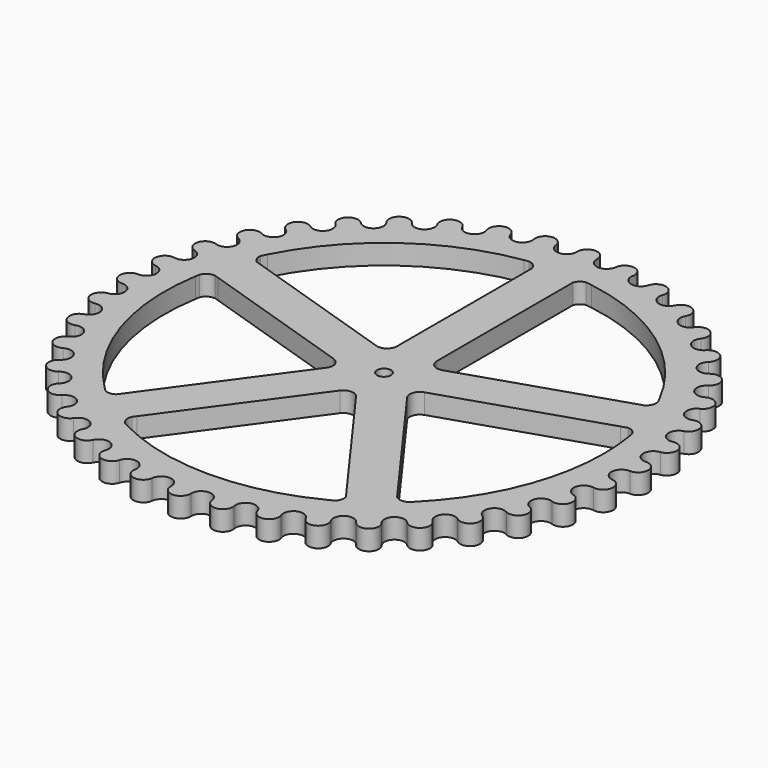
from build123d import *

# Parameters (mm, degrees)
F1_DEPTH = 5
F2_D     = 3.5
F4_DEPTH = 25


with BuildPart() as f1:
    # F0 (on Top) → F1 (new body)
    with BuildSketch(Plane.XY):
        with BuildLine():
            ThreePointArc((63.612902467, -2.4991969551), (63.6497073619, -1.249839365), (63.6619772368, 0))
            ThreePointArc((63.6619772368, 0), (63.6497073619, 1.249839365), (63.612902467, 2.4991969551))
            ThreePointArc((63.612902467, 2.4991969551), (60.9734352727, 4.7987134269), (63.2206826167, 7.4828226737))
            ThreePointArc((63.2206826167, 7.4828226737), (62.878192656, 9.9589273524), (62.4387615394, 12.4196780604))
            ThreePointArc((62.4387615394, 12.4196780604), (59.4720669371, 14.2779800302), (61.2717597431, 17.2805903742))
            ThreePointArc((61.2717597431, 17.2805903742), (60.5461382913, 19.6726328617), (59.7271710803, 22.0343454734))
            ThreePointArc((59.7271710803, 22.0343454734), (56.506298937, 23.4056753792), (57.8141227952, 26.6528525887))
            ThreePointArc((57.8141227952, 26.6528525887), (56.7232370607, 28.9019328601), (55.5448994461, 31.1064541731))
            ThreePointArc((55.5448994461, 31.1064541731), (52.1491583234, 31.9570453214), (52.9329102701, 35.3688331167))
            ThreePointArc((52.9329102701, 35.3688331167), (51.50362148, 37.4195713515), (49.9949280445, 39.4126187345))
            ThreePointArc((49.9949280445, 39.4126187345), (46.5079323587, 39.7215267484), (46.7483138198, 43.2139155909))
            ThreePointArc((46.7483138198, 43.2139155909), (45.0158158079, 45.0158158079), (43.2139155909, 46.7483138198))
            ThreePointArc((43.2139155909, 46.7483138198), (39.7215267484, 46.5079323587), (39.4126187345, 49.9949280445))
            ThreePointArc((39.4126187345, 49.9949280445), (37.4195713515, 51.50362148), (35.3688331167, 52.9329102701))
            ThreePointArc((35.3688331167, 52.9329102701), (31.9570453214, 52.1491583234), (31.1064541731, 55.5448994461))
            ThreePointArc((31.1064541731, 55.5448994461), (28.9019328601, 56.7232370607), (26.6528525887, 57.8141227952))
            ThreePointArc((26.6528525887, 57.8141227952), (23.4056753792, 56.506298937), (22.0343454734, 59.7271710803))
            ThreePointArc((22.0343454734, 59.7271710803), (19.6726328617, 60.5461382913), (17.2805903742, 61.2717597431))
            ThreePointArc((17.2805903742, 61.2717597431), (14.2779800302, 59.4720669371), (12.4196780604, 62.4387615394))
            ThreePointArc((12.4196780604, 62.4387615394), (9.9589273524, 62.878192656), (7.4828226737, 63.2206826167))
            ThreePointArc((7.4828226737, 63.2206826167), (6.5997389632, 61.5488646952), (4.7987134269, 60.9734352727))
            ThreePointArc((4.7987134269, 60.9734352727), (3.1098784975, 61.8235226704), (2.4991969551, 63.612902467))
            ThreePointArc((2.4991969551, 63.612902467), (0, 63.6619772368), (-2.4991969551, 63.612902467))
            ThreePointArc((-2.4991969551, 63.612902467), (-4.7987134269, 60.9734352727), (-7.4828226737, 63.2206826167))
            ThreePointArc((-7.4828226737, 63.2206826167), (-9.9589273524, 62.878192656), (-12.4196780604, 62.4387615394))
            ThreePointArc((-12.4196780604, 62.4387615394), (-14.2779800302, 59.4720669371), (-17.2805903742, 61.2717597431))
            ThreePointArc((-17.2805903742, 61.2717597431), (-19.6726328617, 60.5461382913), (-22.0343454734, 59.7271710803))
            ThreePointArc((-22.0343454734, 59.7271710803), (-23.4056753792, 56.506298937), (-26.6528525887, 57.8141227952))
            ThreePointArc((-26.6528525887, 57.8141227952), (-28.9019328601, 56.7232370607), (-31.1064541731, 55.5448994461))
            ThreePointArc((-31.1064541731, 55.5448994461), (-31.9570453214, 52.1491583234), (-35.3688331167, 52.9329102701))
            ThreePointArc((-35.3688331167, 52.9329102701), (-37.4195713515, 51.50362148), (-39.4126187345, 49.9949280445))
            ThreePointArc((-39.4126187345, 49.9949280445), (-39.7215267484, 46.5079323587), (-43.2139155909, 46.7483138198))
            ThreePointArc((-43.2139155909, 46.7483138198), (-45.0158158079, 45.0158158079), (-46.7483138198, 43.2139155909))
            ThreePointArc((-46.7483138198, 43.2139155909), (-46.5079323587, 39.7215267484), (-49.9949280445, 39.4126187345))
            ThreePointArc((-49.9949280445, 39.4126187345), (-51.50362148, 37.4195713515), (-52.9329102701, 35.3688331167))
            ThreePointArc((-52.9329102701, 35.3688331167), (-52.1491583234, 31.9570453214), (-55.5448994461, 31.1064541731))
            ThreePointArc((-55.5448994461, 31.1064541731), (-56.7232370607, 28.9019328601), (-57.8141227952, 26.6528525887))
            ThreePointArc((-57.8141227952, 26.6528525887), (-56.506298937, 23.4056753792), (-59.7271710803, 22.0343454734))
            ThreePointArc((-59.7271710803, 22.0343454734), (-60.5461382913, 19.6726328617), (-61.2717597431, 17.2805903742))
            ThreePointArc((-61.2717597431, 17.2805903742), (-59.4720669371, 14.2779800302), (-62.4387615394, 12.4196780604))
            ThreePointArc((-62.4387615394, 12.4196780604), (-62.878192656, 9.9589273524), (-63.2206826167, 7.4828226737))
            ThreePointArc((-63.2206826167, 7.4828226737), (-60.9734352727, 4.7987134269), (-63.612902467, 2.4991969551))
            ThreePointArc((-63.612902467, 2.4991969551), (-63.6619772368, 0), (-63.612902467, -2.4991969551))
            ThreePointArc((-63.612902467, -2.4991969551), (-60.9734352727, -4.7987134269), (-63.2206826167, -7.4828226737))
            ThreePointArc((-63.2206826167, -7.4828226737), (-62.878192656, -9.9589273524), (-62.4387615394, -12.4196780604))
            ThreePointArc((-62.4387615394, -12.4196780604), (-59.4720669371, -14.2779800302), (-61.2717597431, -17.2805903742))
            ThreePointArc((-61.2717597431, -17.2805903742), (-60.5461382913, -19.6726328617), (-59.7271710803, -22.0343454734))
            ThreePointArc((-59.7271710803, -22.0343454734), (-56.506298937, -23.4056753792), (-57.8141227952, -26.6528525887))
            ThreePointArc((-57.8141227952, -26.6528525887), (-56.7232370607, -28.9019328601), (-55.5448994461, -31.1064541731))
            ThreePointArc((-55.5448994461, -31.1064541731), (-52.1491583234, -31.9570453214), (-52.9329102701, -35.3688331167))
            ThreePointArc((-52.9329102701, -35.3688331167), (-51.50362148, -37.4195713515), (-49.9949280445, -39.4126187345))
            ThreePointArc((-49.9949280445, -39.4126187345), (-46.5079323587, -39.7215267484), (-46.7483138198, -43.2139155909))
            ThreePointArc((-46.7483138198, -43.2139155909), (-45.0158158079, -45.0158158079), (-43.2139155909, -46.7483138198))
            ThreePointArc((-43.2139155909, -46.7483138198), (-39.7215267484, -46.5079323587), (-39.4126187345, -49.9949280445))
            ThreePointArc((-39.4126187345, -49.9949280445), (-37.4195713515, -51.50362148), (-35.3688331167, -52.9329102701))
            ThreePointArc((-35.3688331167, -52.9329102701), (-31.9570453214, -52.1491583234), (-31.1064541731, -55.5448994461))
            ThreePointArc((-31.1064541731, -55.5448994461), (-28.9019328601, -56.7232370607), (-26.6528525887, -57.8141227952))
            ThreePointArc((-26.6528525887, -57.8141227952), (-23.4056753792, -56.506298937), (-22.0343454734, -59.7271710803))
            ThreePointArc((-22.0343454734, -59.7271710803), (-19.6726328617, -60.5461382913), (-17.2805903742, -61.2717597431))
            ThreePointArc((-17.2805903742, -61.2717597431), (-14.2779800302, -59.4720669371), (-12.4196780604, -62.4387615394))
            ThreePointArc((-12.4196780604, -62.4387615394), (-9.9589273524, -62.878192656), (-7.4828226737, -63.2206826167))
            ThreePointArc((-7.4828226737, -63.2206826167), (-4.7987134269, -60.9734352727), (-2.4991969551, -63.612902467))
            ThreePointArc((-2.4991969551, -63.612902467), (0, -63.6619772368), (2.4991969551, -63.612902467))
            ThreePointArc((2.4991969551, -63.612902467), (4.7987134269, -60.9734352727), (7.4828226737, -63.2206826167))
            ThreePointArc((7.4828226737, -63.2206826167), (9.9589273524, -62.878192656), (12.4196780604, -62.4387615394))
            ThreePointArc((12.4196780604, -62.4387615394), (14.2779800302, -59.4720669371), (17.2805903742, -61.2717597431))
            ThreePointArc((17.2805903742, -61.2717597431), (19.6726328617, -60.5461382913), (22.0343454734, -59.7271710803))
            ThreePointArc((22.0343454734, -59.7271710803), (23.4056753792, -56.506298937), (26.6528525887, -57.8141227952))
            ThreePointArc((26.6528525887, -57.8141227952), (28.9019328601, -56.7232370607), (31.1064541731, -55.5448994461))
            ThreePointArc((31.1064541731, -55.5448994461), (31.9570453214, -52.1491583234), (35.3688331167, -52.9329102701))
            ThreePointArc((35.3688331167, -52.9329102701), (37.4195713515, -51.50362148), (39.4126187345, -49.9949280445))
            ThreePointArc((39.4126187345, -49.9949280445), (39.7215267484, -46.5079323587), (43.2139155909, -46.7483138198))
            ThreePointArc((43.2139155909, -46.7483138198), (45.0158158079, -45.0158158079), (46.7483138198, -43.2139155909))
            ThreePointArc((46.7483138198, -43.2139155909), (46.5079323587, -39.7215267484), (49.9949280445, -39.4126187345))
            ThreePointArc((49.9949280445, -39.4126187345), (51.50362148, -37.4195713515), (52.9329102701, -35.3688331167))
            ThreePointArc((52.9329102701, -35.3688331167), (52.1491583234, -31.9570453214), (55.5448994461, -31.1064541731))
            ThreePointArc((55.5448994461, -31.1064541731), (56.7232370607, -28.9019328601), (57.8141227952, -26.6528525887))
            ThreePointArc((57.8141227952, -26.6528525887), (56.506298937, -23.4056753792), (59.7271710803, -22.0343454734))
            ThreePointArc((59.7271710803, -22.0343454734), (60.5461382913, -19.6726328617), (61.2717597431, -17.2805903742))
            ThreePointArc((61.2717597431, -17.2805903742), (59.4720669371, -14.2779800302), (62.4387615394, -12.4196780604))
            ThreePointArc((62.4387615394, -12.4196780604), (62.878192656, -9.9589273524), (63.2206826167, -7.4828226737))
            ThreePointArc((63.2206826167, -7.4828226737), (60.9734352727, -4.7987134269), (63.612902467, -2.4991969551))
        make_face()
        with BuildLine():
            ThreePointArc((-7.4825035691, -63.2207203853), (-7.4826631214, -63.2207015012), (-7.4828226737, -63.2206826167))
            ThreePointArc((-7.4828226737, -63.2206826167), (-9.9589273524, -62.878192656), (-12.4196780604, -62.4387615394))
            ThreePointArc((-12.4196780604, -62.4387615394), (-12.4198356393, -62.4387301952), (-12.4199932181, -62.4386988506))
            ThreePointArc((-12.4199932181, -62.4386988506), (-10.350013515, -65.3474135075), (-7.4825035691, -63.2207203853))
        make_face()
        with BuildLine():
            ThreePointArc((-2.4991969551, 63.612902467), (0, 63.6619772368), (2.4991969551, 63.612902467))
            ThreePointArc((2.4991969551, 63.612902467), (2.4993574972, 63.6128961595), (2.4995180393, 63.6128898515))
            ThreePointArc((2.4995180393, 63.6128898515), (0, 66.1619772368), (-2.4995180393, 63.6128898515))
            ThreePointArc((-2.4995180393, 63.6128898515), (-2.4993574972, 63.6128961595), (-2.4991969551, 63.612902467))
        make_face()
        with BuildLine():
            ThreePointArc((-12.4196780604, 62.4387615394), (-9.9589273524, 62.878192656), (-7.4828226737, 63.2206826167))
            ThreePointArc((-7.4828226737, 63.2206826167), (-7.4826631214, 63.2207015012), (-7.4825035691, 63.2207203853))
            ThreePointArc((-7.4825035691, 63.2207203853), (-10.350013515, 65.3474135075), (-12.4199932181, 62.4386988506))
            ThreePointArc((-12.4199932181, 62.4386988506), (-12.4198356393, 62.4387301952), (-12.4196780604, 62.4387615394))
        make_face()
        with BuildLine():
            ThreePointArc((-22.0343454734, 59.7271710803), (-19.6726328617, 60.5461382913), (-17.2805903742, 61.2717597431))
            ThreePointArc((-17.2805903742, 61.2717597431), (-17.2804357404, 61.2718033545), (-17.2802811066, 61.2718469656))
            ThreePointArc((-17.2802811066, 61.2718469656), (-20.4451753476, 62.923779582), (-22.0346469443, 59.7270598618))
            ThreePointArc((-22.0346469443, 59.7270598618), (-22.0344962089, 59.7271154712), (-22.0343454734, 59.7271710803))
        make_face()
        with BuildLine():
            ThreePointArc((-31.1064541731, 55.5448994461), (-28.9019328601, 56.7232370607), (-26.6528525887, 57.8141227952))
            ThreePointArc((-26.6528525887, 57.8141227952), (-26.6527066811, 57.8141900598), (-26.6525607733, 57.814257324))
            ThreePointArc((-26.6525607733, 57.814257324), (-30.0369091095, 58.9507533712), (-31.1067345339, 55.5447424364))
            ThreePointArc((-31.1067345339, 55.5447424364), (-31.1065943536, 55.5448209414), (-31.1064541731, 55.5448994461))
        make_face()
        with BuildLine():
            ThreePointArc((-39.4126187345, 49.9949280445), (-37.4195713515, 51.50362148), (-35.3688331167, 52.9329102701))
            ThreePointArc((-35.3688331167, 52.9329102701), (-35.3686995279, 52.9329995315), (-35.3685659389, 52.9330887925))
            ThreePointArc((-35.3685659389, 52.9330887925), (-38.8890344823, 53.526163966), (-39.412871082, 49.9947291099))
            ThreePointArc((-39.412871082, 49.9947291099), (-39.4127449084, 49.9948285774), (-39.4126187345, 49.9949280445))
        make_face()
        with BuildLine():
            ThreePointArc((-46.7483138198, 43.2139155909), (-45.0158158079, 45.0158158079), (-43.2139155909, 46.7483138198))
            ThreePointArc((-43.2139155909, 46.7483138198), (-43.2137976104, 46.7484228801), (-43.2136796296, 46.7485319402))
            ThreePointArc((-43.2136796296, 46.7485319402), (-46.7835827608, 46.7835827608), (-46.7485319402, 43.2136796296))
            ThreePointArc((-46.7485319402, 43.2136796296), (-46.7484228801, 43.2137976104), (-46.7483138198, 43.2139155909))
        make_face()
        with BuildLine():
            ThreePointArc((-52.9329102701, 35.3688331167), (-51.50362148, 37.4195713515), (-49.9949280445, 39.4126187345))
            ThreePointArc((-49.9949280445, 39.4126187345), (-49.9948285774, 39.4127449084), (-49.9947291099, 39.412871082))
            ThreePointArc((-49.9947291099, 39.412871082), (-53.526163966, 38.8890344823), (-52.9330887925, 35.3685659389))
            ThreePointArc((-52.9330887925, 35.3685659389), (-52.9329995315, 35.3686995279), (-52.9329102701, 35.3688331167))
        make_face()
        with BuildLine():
            ThreePointArc((-57.8141227952, 26.6528525887), (-56.7232370607, 28.9019328601), (-55.5448994461, 31.1064541731))
            ThreePointArc((-55.5448994461, 31.1064541731), (-55.5448209414, 31.1065943536), (-55.5447424364, 31.1067345339))
            ThreePointArc((-55.5447424364, 31.1067345339), (-58.9507533712, 30.0369091095), (-57.814257324, 26.6525607733))
            ThreePointArc((-57.814257324, 26.6525607733), (-57.8141900598, 26.6527066811), (-57.8141227952, 26.6528525887))
        make_face()
        with BuildLine():
            ThreePointArc((-61.2717597431, 17.2805903742), (-60.5461382913, 19.6726328617), (-59.7271710803, 22.0343454734))
            ThreePointArc((-59.7271710803, 22.0343454734), (-59.7271154712, 22.0344962089), (-59.7270598618, 22.0346469443))
            ThreePointArc((-59.7270598618, 22.0346469443), (-62.923779582, 20.4451753476), (-61.2718469656, 17.2802811066))
            ThreePointArc((-61.2718469656, 17.2802811066), (-61.2718033545, 17.2804357404), (-61.2717597431, 17.2805903742))
        make_face()
        with BuildLine():
            ThreePointArc((-63.2206826167, 7.4828226737), (-62.878192656, 9.9589273524), (-62.4387615394, 12.4196780604))
            ThreePointArc((-62.4387615394, 12.4196780604), (-62.4387301952, 12.4198356393), (-62.4386988506, 12.4199932181))
            ThreePointArc((-62.4386988506, 12.4199932181), (-65.3474135075, 10.350013515), (-63.2207203853, 7.4825035691))
            ThreePointArc((-63.2207203853, 7.4825035691), (-63.2207015012, 7.4826631214), (-63.2206826167, 7.4828226737))
        make_face()
        with BuildLine():
            ThreePointArc((-63.6128898515, -2.4995180393), (-63.6128961595, -2.4993574972), (-63.612902467, -2.4991969551))
            ThreePointArc((-63.612902467, -2.4991969551), (-63.6619772368, 0), (-63.612902467, 2.4991969551))
            ThreePointArc((-63.612902467, 2.4991969551), (-63.6128961595, 2.4993574972), (-63.6128898515, 2.4995180393))
            ThreePointArc((-63.6128898515, 2.4995180393), (-66.1619772368, 0), (-63.6128898515, -2.4995180393))
        make_face()
        with BuildLine():
            ThreePointArc((-62.4386988506, -12.4199932181), (-62.4387301952, -12.4198356393), (-62.4387615394, -12.4196780604))
            ThreePointArc((-62.4387615394, -12.4196780604), (-62.878192656, -9.9589273524), (-63.2206826167, -7.4828226737))
            ThreePointArc((-63.2206826167, -7.4828226737), (-63.2207015012, -7.4826631214), (-63.2207203853, -7.4825035691))
            ThreePointArc((-63.2207203853, -7.4825035691), (-65.3474135075, -10.350013515), (-62.4386988506, -12.4199932181))
        make_face()
        with BuildLine():
            ThreePointArc((-59.7270598618, -22.0346469443), (-59.7271154712, -22.0344962089), (-59.7271710803, -22.0343454734))
            ThreePointArc((-59.7271710803, -22.0343454734), (-60.5461382913, -19.6726328617), (-61.2717597431, -17.2805903742))
            ThreePointArc((-61.2717597431, -17.2805903742), (-61.2718033545, -17.2804357404), (-61.2718469656, -17.2802811066))
            ThreePointArc((-61.2718469656, -17.2802811066), (-62.923779582, -20.4451753476), (-59.7270598618, -22.0346469443))
        make_face()
        with BuildLine():
            ThreePointArc((-55.5447424364, -31.1067345339), (-55.5448209414, -31.1065943536), (-55.5448994461, -31.1064541731))
            ThreePointArc((-55.5448994461, -31.1064541731), (-56.7232370607, -28.9019328601), (-57.8141227952, -26.6528525887))
            ThreePointArc((-57.8141227952, -26.6528525887), (-57.8141900598, -26.6527066811), (-57.814257324, -26.6525607733))
            ThreePointArc((-57.814257324, -26.6525607733), (-58.9507533712, -30.0369091095), (-55.5447424364, -31.1067345339))
        make_face()
        with BuildLine():
            ThreePointArc((-49.9947291099, -39.412871082), (-49.9948285774, -39.4127449084), (-49.9949280445, -39.4126187345))
            ThreePointArc((-49.9949280445, -39.4126187345), (-51.50362148, -37.4195713515), (-52.9329102701, -35.3688331167))
            ThreePointArc((-52.9329102701, -35.3688331167), (-52.9329995315, -35.3686995279), (-52.9330887925, -35.3685659389))
            ThreePointArc((-52.9330887925, -35.3685659389), (-53.526163966, -38.8890344823), (-49.9947291099, -39.412871082))
        make_face()
        with BuildLine():
            ThreePointArc((-43.2136796296, -46.7485319402), (-43.2137976104, -46.7484228801), (-43.2139155909, -46.7483138198))
            ThreePointArc((-43.2139155909, -46.7483138198), (-45.0158158079, -45.0158158079), (-46.7483138198, -43.2139155909))
            ThreePointArc((-46.7483138198, -43.2139155909), (-46.7484228801, -43.2137976104), (-46.7485319402, -43.2136796296))
            ThreePointArc((-46.7485319402, -43.2136796296), (-46.7835827608, -46.7835827608), (-43.2136796296, -46.7485319402))
        make_face()
        with BuildLine():
            ThreePointArc((-35.3685659389, -52.9330887925), (-35.3686995279, -52.9329995315), (-35.3688331167, -52.9329102701))
            ThreePointArc((-35.3688331167, -52.9329102701), (-37.4195713515, -51.50362148), (-39.4126187345, -49.9949280445))
            ThreePointArc((-39.4126187345, -49.9949280445), (-39.4127449084, -49.9948285774), (-39.412871082, -49.9947291099))
            ThreePointArc((-39.412871082, -49.9947291099), (-38.8890344823, -53.526163966), (-35.3685659389, -52.9330887925))
        make_face()
        with BuildLine():
            ThreePointArc((-26.6525607733, -57.814257324), (-26.6527066811, -57.8141900598), (-26.6528525887, -57.8141227952))
            ThreePointArc((-26.6528525887, -57.8141227952), (-28.9019328601, -56.7232370607), (-31.1064541731, -55.5448994461))
            ThreePointArc((-31.1064541731, -55.5448994461), (-31.1065943536, -55.5448209414), (-31.1067345339, -55.5447424364))
            ThreePointArc((-31.1067345339, -55.5447424364), (-30.0369091095, -58.9507533712), (-26.6525607733, -57.814257324))
        make_face()
        with BuildLine():
            ThreePointArc((-17.2802811066, -61.2718469656), (-17.2804357404, -61.2718033545), (-17.2805903742, -61.2717597431))
            ThreePointArc((-17.2805903742, -61.2717597431), (-19.6726328617, -60.5461382913), (-22.0343454734, -59.7271710803))
            ThreePointArc((-22.0343454734, -59.7271710803), (-22.0344962089, -59.7271154712), (-22.0346469443, -59.7270598618))
            ThreePointArc((-22.0346469443, -59.7270598618), (-20.4451753476, -62.923779582), (-17.2802811066, -61.2718469656))
        make_face()
        with BuildLine():
            ThreePointArc((2.4995180393, -63.6128898515), (2.4993574972, -63.6128961595), (2.4991969551, -63.612902467))
            ThreePointArc((2.4991969551, -63.612902467), (0, -63.6619772368), (-2.4991969551, -63.612902467))
            ThreePointArc((-2.4991969551, -63.612902467), (-2.4993574972, -63.6128961595), (-2.4995180393, -63.6128898515))
            ThreePointArc((-2.4995180393, -63.6128898515), (0, -66.1619772368), (2.4995180393, -63.6128898515))
        make_face()
        with BuildLine():
            ThreePointArc((12.4199932181, -62.4386988506), (12.4198356393, -62.4387301952), (12.4196780604, -62.4387615394))
            ThreePointArc((12.4196780604, -62.4387615394), (9.9589273524, -62.878192656), (7.4828226737, -63.2206826167))
            ThreePointArc((7.4828226737, -63.2206826167), (7.4826631214, -63.2207015012), (7.4825035691, -63.2207203853))
            ThreePointArc((7.4825035691, -63.2207203853), (10.350013515, -65.3474135075), (12.4199932181, -62.4386988506))
        make_face()
        with BuildLine():
            ThreePointArc((22.0346469443, -59.7270598618), (22.0344962089, -59.7271154712), (22.0343454734, -59.7271710803))
            ThreePointArc((22.0343454734, -59.7271710803), (19.6726328617, -60.5461382913), (17.2805903742, -61.2717597431))
            ThreePointArc((17.2805903742, -61.2717597431), (17.2804357404, -61.2718033545), (17.2802811066, -61.2718469656))
            ThreePointArc((17.2802811066, -61.2718469656), (20.4451753476, -62.923779582), (22.0346469443, -59.7270598618))
        make_face()
        with BuildLine():
            ThreePointArc((31.1067345339, -55.5447424364), (31.1065943536, -55.5448209414), (31.1064541731, -55.5448994461))
            ThreePointArc((31.1064541731, -55.5448994461), (28.9019328601, -56.7232370607), (26.6528525887, -57.8141227952))
            ThreePointArc((26.6528525887, -57.8141227952), (26.6527066811, -57.8141900598), (26.6525607733, -57.814257324))
            ThreePointArc((26.6525607733, -57.814257324), (30.0369091095, -58.9507533712), (31.1067345339, -55.5447424364))
        make_face()
        with BuildLine():
            ThreePointArc((39.412871082, -49.9947291099), (39.4127449084, -49.9948285774), (39.4126187345, -49.9949280445))
            ThreePointArc((39.4126187345, -49.9949280445), (37.4195713515, -51.50362148), (35.3688331167, -52.9329102701))
            ThreePointArc((35.3688331167, -52.9329102701), (35.3686995279, -52.9329995315), (35.3685659389, -52.9330887925))
            ThreePointArc((35.3685659389, -52.9330887925), (38.8890344823, -53.526163966), (39.412871082, -49.9947291099))
        make_face()
        with BuildLine():
            ThreePointArc((52.9330887925, -35.3685659389), (52.9329995315, -35.3686995279), (52.9329102701, -35.3688331167))
            ThreePointArc((52.9329102701, -35.3688331167), (51.50362148, -37.4195713515), (49.9949280445, -39.4126187345))
            ThreePointArc((49.9949280445, -39.4126187345), (49.9948285774, -39.4127449084), (49.9947291099, -39.412871082))
            ThreePointArc((49.9947291099, -39.412871082), (53.526163966, -38.8890344823), (52.9330887925, -35.3685659389))
        make_face()
        with BuildLine():
            ThreePointArc((57.814257324, -26.6525607733), (57.8141900598, -26.6527066811), (57.8141227952, -26.6528525887))
            ThreePointArc((57.8141227952, -26.6528525887), (56.7232370607, -28.9019328601), (55.5448994461, -31.1064541731))
            ThreePointArc((55.5448994461, -31.1064541731), (55.5448209414, -31.1065943536), (55.5447424364, -31.1067345339))
            ThreePointArc((55.5447424364, -31.1067345339), (58.9507533712, -30.0369091095), (57.814257324, -26.6525607733))
        make_face()
        with BuildLine():
            ThreePointArc((61.2718469656, -17.2802811066), (61.2718033545, -17.2804357404), (61.2717597431, -17.2805903742))
            ThreePointArc((61.2717597431, -17.2805903742), (60.5461382913, -19.6726328617), (59.7271710803, -22.0343454734))
            ThreePointArc((59.7271710803, -22.0343454734), (59.7271154712, -22.0344962089), (59.7270598618, -22.0346469443))
            ThreePointArc((59.7270598618, -22.0346469443), (62.923779582, -20.4451753476), (61.2718469656, -17.2802811066))
        make_face()
        with BuildLine():
            ThreePointArc((63.2207203853, -7.4825035691), (63.2207015012, -7.4826631214), (63.2206826167, -7.4828226737))
            ThreePointArc((63.2206826167, -7.4828226737), (62.878192656, -9.9589273524), (62.4387615394, -12.4196780604))
            ThreePointArc((62.4387615394, -12.4196780604), (62.4387301952, -12.4198356393), (62.4386988506, -12.4199932181))
            ThreePointArc((62.4386988506, -12.4199932181), (65.3474135075, -10.350013515), (63.2207203853, -7.4825035691))
        make_face()
        with BuildLine():
            ThreePointArc((63.612902467, 2.4991969551), (63.6497073619, 1.249839365), (63.6619772368, 0))
            ThreePointArc((63.6619772368, 0), (63.6497073619, -1.249839365), (63.612902467, -2.4991969551))
            ThreePointArc((63.612902467, -2.4991969551), (63.6128961595, -2.4993574972), (63.6128898515, -2.4995180393))
            ThreePointArc((63.6128898515, -2.4995180393), (66.1619772368, 0), (63.6128898515, 2.4995180393))
            ThreePointArc((63.6128898515, 2.4995180393), (63.6128961595, 2.4993574972), (63.612902467, 2.4991969551))
        make_face()
        with BuildLine():
            ThreePointArc((62.4387615394, 12.4196780604), (62.878192656, 9.9589273524), (63.2206826167, 7.4828226737))
            ThreePointArc((63.2206826167, 7.4828226737), (63.2207015012, 7.4826631214), (63.2207203853, 7.4825035691))
            ThreePointArc((63.2207203853, 7.4825035691), (65.3474135075, 10.350013515), (62.4386988506, 12.4199932181))
            ThreePointArc((62.4386988506, 12.4199932181), (62.4387301952, 12.4198356393), (62.4387615394, 12.4196780604))
        make_face()
        with BuildLine():
            ThreePointArc((59.7271710803, 22.0343454734), (60.5461382913, 19.6726328617), (61.2717597431, 17.2805903742))
            ThreePointArc((61.2717597431, 17.2805903742), (61.2718033545, 17.2804357404), (61.2718469656, 17.2802811066))
            ThreePointArc((61.2718469656, 17.2802811066), (62.923779582, 20.4451753476), (59.7270598618, 22.0346469443))
            ThreePointArc((59.7270598618, 22.0346469443), (59.7271154712, 22.0344962089), (59.7271710803, 22.0343454734))
        make_face()
        with BuildLine():
            ThreePointArc((55.5448994461, 31.1064541731), (56.7232370607, 28.9019328601), (57.8141227952, 26.6528525887))
            ThreePointArc((57.8141227952, 26.6528525887), (57.8141900598, 26.6527066811), (57.814257324, 26.6525607733))
            ThreePointArc((57.814257324, 26.6525607733), (58.9507533712, 30.0369091095), (55.5447424364, 31.1067345339))
            ThreePointArc((55.5447424364, 31.1067345339), (55.5448209414, 31.1065943536), (55.5448994461, 31.1064541731))
        make_face()
        with BuildLine():
            ThreePointArc((49.9949280445, 39.4126187345), (51.50362148, 37.4195713515), (52.9329102701, 35.3688331167))
            ThreePointArc((52.9329102701, 35.3688331167), (52.9329995315, 35.3686995279), (52.9330887925, 35.3685659389))
            ThreePointArc((52.9330887925, 35.3685659389), (53.526163966, 38.8890344823), (49.9947291099, 39.412871082))
            ThreePointArc((49.9947291099, 39.412871082), (49.9948285774, 39.4127449084), (49.9949280445, 39.4126187345))
        make_face()
        with BuildLine():
            ThreePointArc((43.2139155909, 46.7483138198), (45.0158158079, 45.0158158079), (46.7483138198, 43.2139155909))
            ThreePointArc((46.7483138198, 43.2139155909), (46.7484228801, 43.2137976104), (46.7485319402, 43.2136796296))
            ThreePointArc((46.7485319402, 43.2136796296), (46.7835827608, 46.7835827608), (43.2136796296, 46.7485319402))
            ThreePointArc((43.2136796296, 46.7485319402), (43.2137976104, 46.7484228801), (43.2139155909, 46.7483138198))
        make_face()
        with BuildLine():
            ThreePointArc((7.4828226737, 63.2206826167), (9.9589273524, 62.878192656), (12.4196780604, 62.4387615394))
            ThreePointArc((12.4196780604, 62.4387615394), (12.4198356393, 62.4387301952), (12.4199932181, 62.4386988506))
            ThreePointArc((12.4199932181, 62.4386988506), (10.350013515, 65.3474135075), (7.4825035691, 63.2207203853))
            ThreePointArc((7.4825035691, 63.2207203853), (7.4826631214, 63.2207015012), (7.4828226737, 63.2206826167))
        make_face()
        with BuildLine():
            ThreePointArc((17.2805903742, 61.2717597431), (19.6726328617, 60.5461382913), (22.0343454734, 59.7271710803))
            ThreePointArc((22.0343454734, 59.7271710803), (22.0344962089, 59.7271154712), (22.0346469443, 59.7270598618))
            ThreePointArc((22.0346469443, 59.7270598618), (20.4451753476, 62.923779582), (17.2802811066, 61.2718469656))
            ThreePointArc((17.2802811066, 61.2718469656), (17.2804357404, 61.2718033545), (17.2805903742, 61.2717597431))
        make_face()
        with BuildLine():
            ThreePointArc((26.6528525887, 57.8141227952), (28.9019328601, 56.7232370607), (31.1064541731, 55.5448994461))
            ThreePointArc((31.1064541731, 55.5448994461), (31.1065943536, 55.5448209414), (31.1067345339, 55.5447424364))
            ThreePointArc((31.1067345339, 55.5447424364), (30.0369091095, 58.9507533712), (26.6525607733, 57.814257324))
            ThreePointArc((26.6525607733, 57.814257324), (26.6527066811, 57.8141900598), (26.6528525887, 57.8141227952))
        make_face()
        with BuildLine():
            ThreePointArc((35.3688331167, 52.9329102701), (37.4195713515, 51.50362148), (39.4126187345, 49.9949280445))
            ThreePointArc((39.4126187345, 49.9949280445), (39.4127449084, 49.9948285774), (39.412871082, 49.9947291099))
            ThreePointArc((39.412871082, 49.9947291099), (38.8890344823, 53.526163966), (35.3685659389, 52.9330887925))
            ThreePointArc((35.3685659389, 52.9330887925), (35.3686995279, 52.9329995315), (35.3688331167, 52.9329102701))
        make_face()
        with BuildLine():
            ThreePointArc((46.7485319402, -43.2136796296), (46.7484228801, -43.2137976104), (46.7483138198, -43.2139155909))
            ThreePointArc((46.7483138198, -43.2139155909), (45.0158158079, -45.0158158079), (43.2139155909, -46.7483138198))
            ThreePointArc((43.2139155909, -46.7483138198), (43.2137976104, -46.7484228801), (43.2136796296, -46.7485319402))
            ThreePointArc((43.2136796296, -46.7485319402), (46.7835827608, -46.7835827608), (46.7485319402, -43.2136796296))
        make_face()
    extrude(amount=F1_DEPTH)

    # F2 (through all)
    with Locations(Plane(origin=(0, 0, 0), x_dir=(1, 0, 0), z_dir=(0, 0, -1))):
        with Locations((0, 0)):
            Hole(F2_D / 2)

    # F3 (on face) → F4 (cut)
    with BuildSketch(Plane.XY.offset(5)):
        with BuildLine():
            ThreePointArc((-5, 52.4779554482), (-5.8241257627, 53.8871791149), (-7.3336233516, 54.5088797219))
            ThreePointArc((-7.3336233516, 54.5088797219), (-7.8571428571, 54.4358825236), (-8.3799366451, 54.3578574065))
            ThreePointArc((-8.3799366451, 54.3578574065), (-32.2852485694, 44.5271010151), (-49.0599742226, 24.8619976928))
            ThreePointArc((-49.0599742226, 24.8619976928), (-49.4084867847, 24.1619832307), (-49.7470117887, 23.4570846035))
            ThreePointArc((-49.7470117887, 23.4570846035), (-49.5701722514, 22.1361916197), (-48.739800377, 21.0938322541))
            Line((-48.739800377, 21.0938322541), (-47.2703372463, 20.6163747401))
            Line((-47.2703372463, 20.6163747401), (-8.2725424859, 7.9452231128))
            ThreePointArc((-8.2725424859, 7.9452231128), (-6.0305368693, 8.3003219176), (-5, 10.3228644035))
            Line((-5, 10.3228644035), (-5, 51.4450930059))
            Line((-5, 51.4450930059), (-5, 52.4779554482))
        make_face()
        with BuildLine():
            ThreePointArc((48.364416519, 20.971862645), (49.4499990039, 22.1911268838), (49.5748110095, 23.818860455))
            ThreePointArc((49.5748110095, 23.818860455), (49.3436101243, 24.2941997173), (49.1078516632, 24.7672950689))
            ThreePointArc((49.1078516632, 24.7672950689), (32.3710990966, 44.464726956), (8.4847991354, 54.3415879749))
            ThreePointArc((8.4847991354, 54.3415879749), (7.7113495154, 54.456726753), (6.9363411034, 54.5608575088))
            ThreePointArc((6.9363411034, 54.5608575088), (5.7347436461, 53.9844947348), (5, 52.8726573945))
            Line((5, 52.8726573945), (5, 51.3275724226))
            Line((5, 51.3275724226), (5, 10.3228644035))
            ThreePointArc((5, 10.3228644035), (6.0305368693, 8.3003219176), (8.2725424859, 7.9452231128))
            Line((8.2725424859, 7.9452231128), (47.3821059628, 20.6526905975))
            Line((47.3821059628, 20.6526905975), (48.364416519, 20.971862645))
        make_face()
        with BuildLine():
            ThreePointArc((-38.8055306922, -38.9760283725), (-38.247473681, -39.5237998808), (-37.6816852275, -40.0635819469))
            ThreePointArc((-37.6816852275, -40.0635819469), (-36.3707949256, -40.3035759323), (-35.1228532379, -39.8359521085))
            Line((-35.1228532379, -39.8359521085), (-34.2146750779, -38.5859521085))
            Line((-34.2146750779, -38.5859521085), (-10.1127124297, -5.4124464716))
            ThreePointArc((-10.1127124297, -5.4124464716), (-9.7576136249, -3.170440855), (-11.3627124297, -1.5653420502))
            Line((-11.3627124297, -1.5653420502), (-50.4722759065, 11.1421254345))
            Line((-50.4722759065, 11.1421254345), (-51.4545864628, 11.4612974821))
            ThreePointArc((-51.4545864628, 11.4612974821), (-53.0495066801, 11.1129813671), (-54.1072395015, 9.8694799018))
            ThreePointArc((-54.1072395015, 9.8694799018), (-54.1995914644, 9.3490258898), (-54.2869373334, 8.8277083639))
            ThreePointArc((-54.2869373334, 8.8277083639), (-52.3244800477, -16.9454651082), (-38.8055306922, -38.9760283725))
        make_face()
        with BuildLine():
            ThreePointArc((25.0768373034, -48.9505079735), (25.770248066, -48.5890349216), (26.4584495647, -48.2177399577))
            ThreePointArc((26.4584495647, -48.2177399577), (27.0917847895, -47.045171414), (27.0326832941, -45.7138046314))
            Line((27.0326832941, -45.7138046314), (26.1245051341, -44.4638046314))
            Line((26.1245051341, -44.4638046314), (2.0225424859, -11.2902989945))
            ThreePointArc((2.0225424859, -11.2902989945), (0, -10.2597621253), (-2.0225424859, -11.2902989945))
            Line((-2.0225424859, -11.2902989945), (-26.1935819998, -44.5588807804))
            Line((-26.1935819998, -44.5588807804), (-26.8006833111, -45.3944840491))
            ThreePointArc((-26.8006833111, -45.3944840491), (-26.962272452, -47.0189789137), (-26.1064896977, -48.4092056913))
            ThreePointArc((-26.1064896977, -48.4092056913), (-25.6400468442, -48.657866762), (-25.1712357721, -48.9020335948))
            ThreePointArc((-25.1712357721, -48.9020335948), (-0.0530585438, -54.9999744072), (25.0768373034, -48.9505079735))
        make_face()
        with BuildLine():
            ThreePointArc((54.303868476, 8.7229506784), (54.1743628844, 9.4941248187), (54.0339063481, 10.2633797923))
            ThreePointArc((54.0339063481, 10.2633797923), (53.1144387414, 11.2280609919), (51.8299703208, 11.5832670912))
            Line((51.8299703208, 11.5832670912), (50.36050719, 11.1058095771))
            Line((50.36050719, 11.1058095771), (11.3627124297, -1.5653420502))
            ThreePointArc((11.3627124297, -1.5653420502), (9.7576136249, -3.170440855), (10.1127124297, -5.4124464716))
            Line((10.1127124297, -5.4124464716), (34.2837519436, -38.6810282575))
            Line((34.2837519436, -38.6810282575), (34.8908532548, -39.5166315262))
            ThreePointArc((34.8908532548, -39.5166315262), (36.3859058908, -40.1723084521), (37.9725415413, -39.7880143874))
            ThreePointArc((37.9725415413, -39.7880143874), (38.3531710416, -39.4212413688), (38.7302580874, -39.0508272445))
            ThreePointArc((38.7302580874, -39.0508272445), (50.7698936123, -21.1522552603), (55, 0))
            ThreePointArc((55, 0), (54.8256909039, 4.3753419191), (54.303868476, 8.7229506784))
        make_face()
    extrude(amount=-F4_DEPTH, mode=Mode.SUBTRACT)


solid = f1.part
